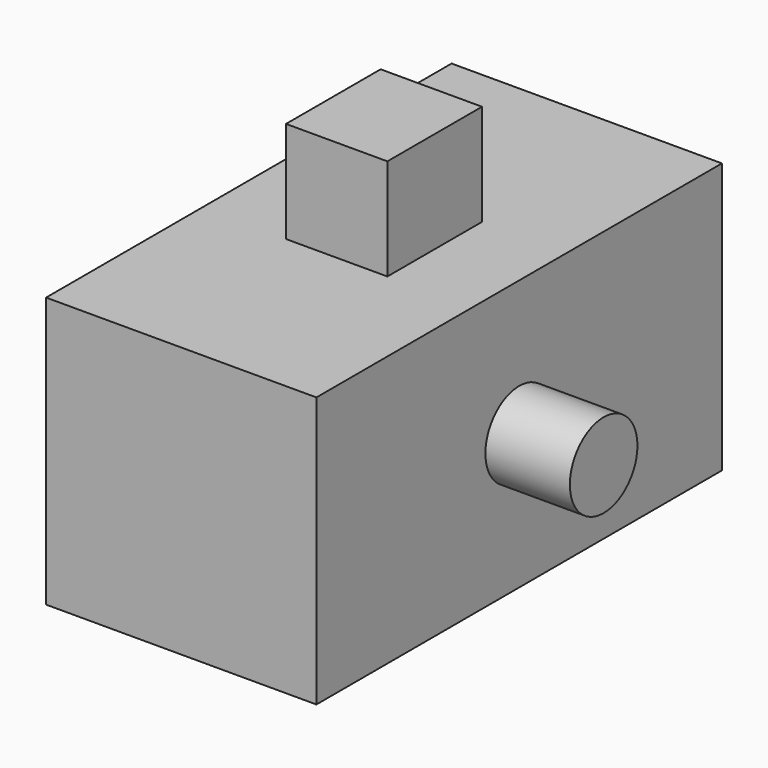
from build123d import *

# Parameters (mm, degrees)
F0_W     = 16
F0_H     = 30
F1_DEPTH = 16
F2_W     = 6
F2_H     = 7
F3_DEPTH = 6
F4_R     = 2.5
F5_DEPTH = 5


with BuildPart() as f1:
    # F0 (on Top) → F1 (new body)
    with BuildSketch(Plane.XY):
        with Locations((8, 15)):
            Rectangle(F0_W, F0_H)
    extrude(amount=F1_DEPTH)

    # F2 (on face) → F3 (join)
    with BuildSketch(Plane.XY.offset(16)):
        with Locations((8, 15)):
            Rectangle(F2_W, F2_H)
    extrude(amount=F3_DEPTH)

    # F4 (on face) → F5 (join)
    with BuildSketch(Plane.YZ.offset(16)):
        with Locations((15, 8)):
            Circle(F4_R)
    extrude(amount=F5_DEPTH)


solid = f1.part
